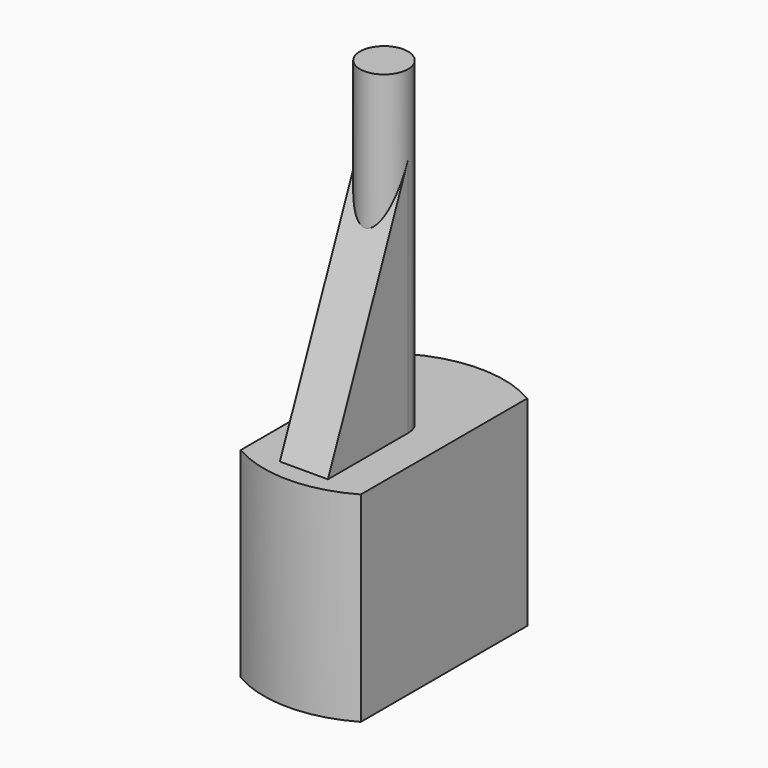
from build123d import *

# Parameters (mm, degrees)
F0_R     = 3
F1_DEPTH = 25
F2_DEPTH = 65
F4_DEPTH = 3


with BuildPart() as f1:
    # F0 (on Top) → F1 (new body)
    with BuildSketch(Plane.XY):
        with BuildLine():
            Line((7.5, -12.990381), (7.5, 12.990381))
            ThreePointArc((7.5, 12.990381), (0, 15), (-7.5, 12.990381))
            Line((-7.5, 12.990381), (-7.5, -12.990381))
            ThreePointArc((-7.5, -12.990381), (0, -15), (7.5, -12.990381))
        make_face()
        Circle(F0_R, mode=Mode.SUBTRACT)
    extrude(amount=F1_DEPTH)

    # F0 (on Top) → F2 (join)
    with BuildSketch(Plane.XY):
        Circle(F0_R)
    extrude(amount=F2_DEPTH)

    # F3 (on Right) → F4 (join, symmetric)
    with BuildSketch(Plane.YZ):
        Polygon((-12.5, 25), (0, 25), (0, 55), align=None)
    extrude(amount=F4_DEPTH, both=True)


solid = f1.part
